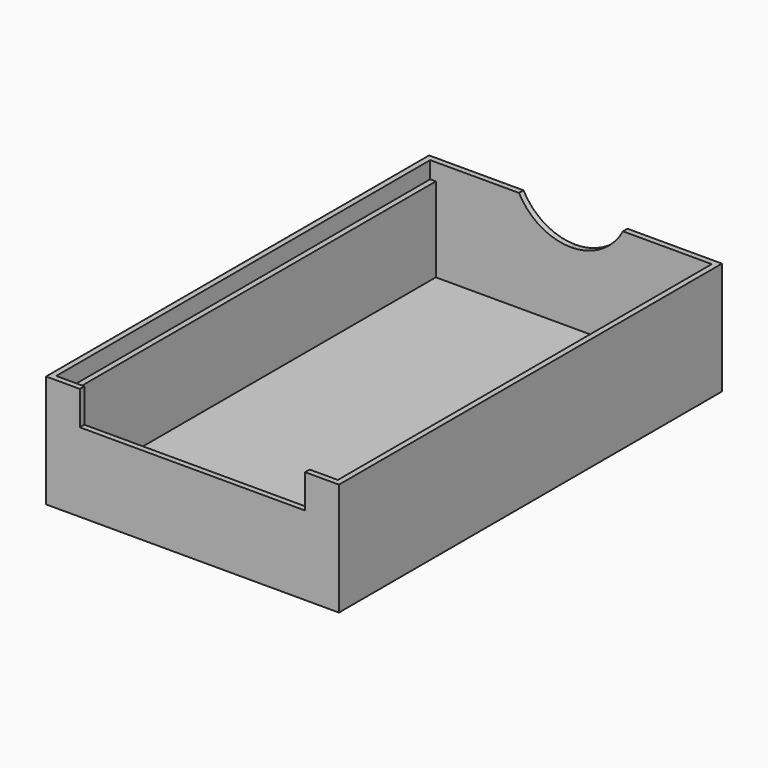
from build123d import *

# Parameters (mm, degrees)
F0_W      = 52
F0_H      = 85
F1_DEPTH  = 20
F2_W      = 48
F2_H      = 83
F3_DEPTH  = 18
F5_DEPTH  = 5
F7_DEPTH  = 5
F8_W      = 1
F8_H      = 83
F9_DEPTH  = 3
F10_W     = 1
F10_H     = 83
F11_DEPTH = 3


with BuildPart() as f1:
    # F0 (on Top) → F1 (new body)
    with BuildSketch(Plane.XY):
        Rectangle(F0_W, F0_H)
    extrude(amount=F1_DEPTH)

    # F2 (on face) → F3 (cut)
    with BuildSketch(Plane.XY.offset(20)):
        Rectangle(F2_W, F2_H)
    extrude(amount=-F3_DEPTH, mode=Mode.SUBTRACT)

    # F4 (on face) → F5 (cut)
    with BuildSketch(Plane.XZ.offset(42.5)):
        Polygon((-20, 14), (0, 14), (20, 14), (20, 20), (-20, 20), align=None)
    extrude(amount=-F5_DEPTH, mode=Mode.SUBTRACT)

    # F6 (on face) → F7 (cut)
    with BuildSketch(Plane(origin=(0, 42.5, 0), x_dir=(-1, 0, 0), z_dir=(0, 1, 0))):
        with BuildLine():
            ThreePointArc((-9.2330926563, 20), (-5.3735463151, 15.9791907237), (0, 14.5))
            Line((0, 14.5), (0, 20))
            Line((0, 20), (-9.2330926563, 20))
        make_face()
        with BuildLine():
            Line((0, 20), (0, 14.5))
            ThreePointArc((0, 14.5), (5.3735463151, 15.9791907237), (9.2330926563, 20))
            Line((9.2330926563, 20), (0, 20))
        make_face()
    extrude(amount=-F7_DEPTH, mode=Mode.SUBTRACT)

    # F8 (on face) → F9 (cut)
    with BuildSketch(Plane.XY.offset(20)):
        with Locations((24.5, 0)):
            Rectangle(F8_W, F8_H)
    extrude(amount=-F9_DEPTH, mode=Mode.SUBTRACT)

    # F10 (on face) → F11 (cut)
    with BuildSketch(Plane.XY.offset(20)):
        with Locations((-24.5, 0)):
            Rectangle(F10_W, F10_H)
    extrude(amount=-F11_DEPTH, mode=Mode.SUBTRACT)


solid = f1.part
